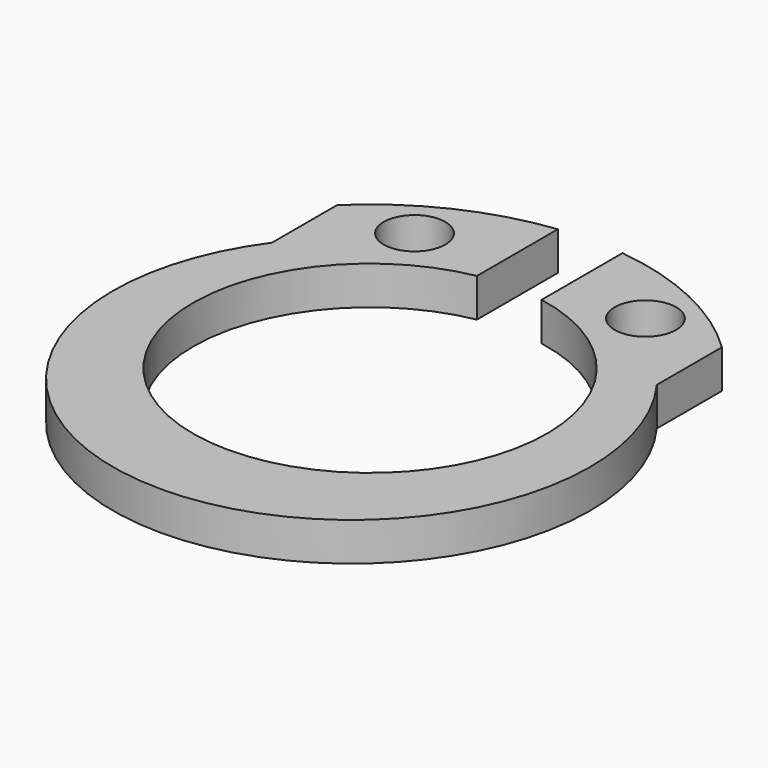
from build123d import *

# Parameters (mm, degrees)
F0_R     = 0.4
F1_DEPTH = 0.5
F2_SCALE = 3


with BuildPart() as f1:
    # F0 (on Top) → F1 (new body)
    with BuildSketch(Plane.XY):
        with BuildLine():
            Line((2.5, 1.533030278), (2.5, 2.5903667694))
            ThreePointArc((2.5, 2.5903667694), (1.5408376054, 3.2535856334), (0.42, 3.5754160597))
            Line((0.42, 3.5754160597), (0.42, 2.261327044))
            ThreePointArc((0.42, 2.261327044), (0, -2.3), (-0.42, 2.261327044))
            Line((-0.42, 2.261327044), (-0.42, 3.5754160597))
            ThreePointArc((-0.42, 3.5754160597), (-1.5408376054, 3.2535856334), (-2.5, 2.5903667694))
            Line((-2.5, 2.5903667694), (-2.5, 1.533030278))
            ThreePointArc((-2.5, 1.533030278), (0, -3.4), (2.5, 1.533030278))
        make_face()
        with Locations((-1.5, 2.5980762114)):
            Circle(F0_R, mode=Mode.SUBTRACT)
        with Locations((1.5, 2.5980762114)):
            Circle(F0_R, mode=Mode.SUBTRACT)
    extrude(amount=F1_DEPTH)


with BuildPart() as f1_1:
    # F2: moved
    add(f1.part.scale(F2_SCALE))


solid = f1_1.part
